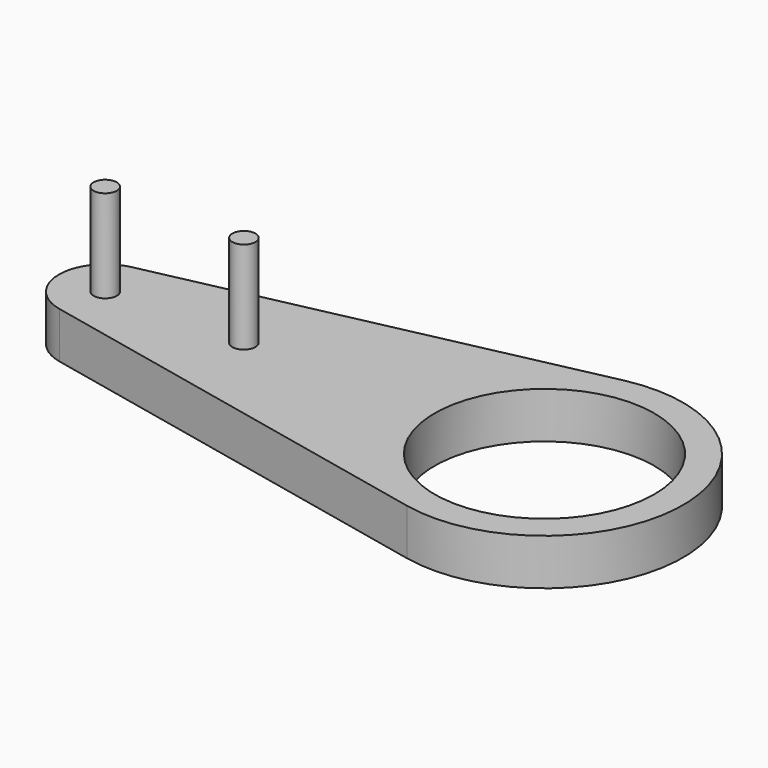
from build123d import *

# Parameters (mm, degrees)
F0_R     = 0.5
F1_DEPTH = 6
F2_R     = 4.75
F3_DEPTH = 2


with BuildPart() as f1:
    # F0 (on Top) → F1 (new body)
    with BuildSketch(Plane.XY):
        with Locations((3, 0)):
            Circle(F0_R)
        with Locations((-3, 0)):
            Circle(F0_R)
    extrude(amount=F1_DEPTH)


with BuildPart() as f3:
    # F2 (on Top) → F3 (new body)
    with BuildSketch(Plane.XY):
        with BuildLine():
            Line((-3.421053, -1.955176), (14.736842, -5.865529))
            ThreePointArc((14.736842, -5.865529), (22, 0), (14.736842, 5.865529))
            Line((14.736842, 5.865529), (-3.421053, 1.955176))
            ThreePointArc((-3.421053, 1.955176), (-5, 0), (-3.421053, -1.955176))
        make_face()
        with Locations((16, 0)):
            Circle(F2_R, mode=Mode.SUBTRACT)
    extrude(amount=F3_DEPTH)


solid = Compound([f1.part, f3.part])
